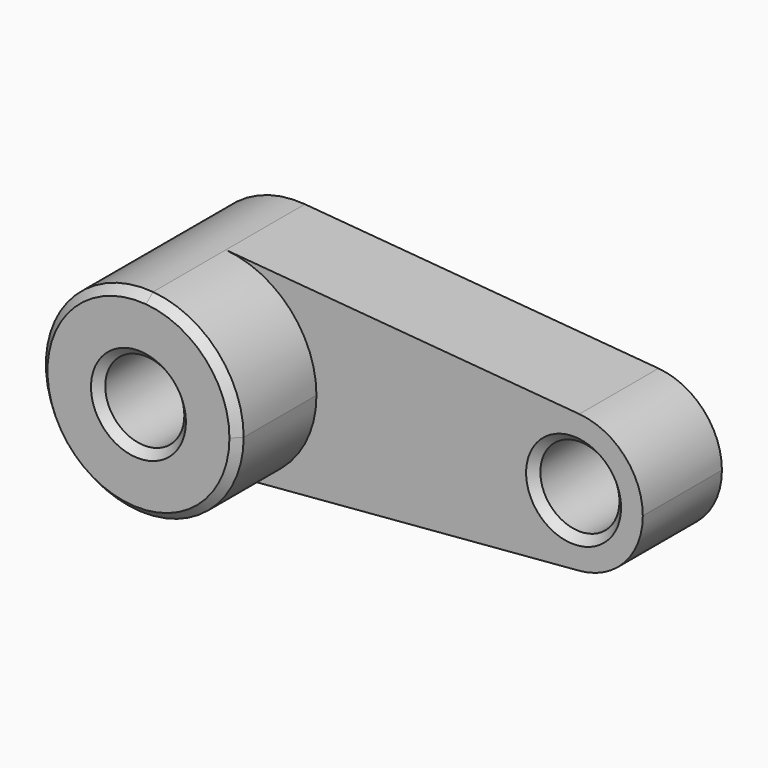
from build123d import *

# Parameters (mm, degrees)
F0_R     = 10
F1_DEPTH = 25
F2_DEPTH = 50
F3_SIZE  = 2


with BuildPart() as f1:
    # F0 (on Front) → F1 (new body)
    with BuildSketch(Plane.XZ):
        with BuildLine():
            ThreePointArc((2.083333, -24.913043), (18.399502, -16.92508), (25, 0))
            ThreePointArc((25, 0), (18.399502, 16.92508), (2.083333, 24.913043))
            ThreePointArc((2.083333, 24.913043), (-25, 0), (2.083333, -24.913043))
        make_face()
        Circle(F0_R, mode=Mode.SUBTRACT)
        with BuildLine():
            ThreePointArc((2.083333, 24.913043), (18.399502, 16.92508), (25, 0))
            ThreePointArc((25, 0), (18.399502, -16.92508), (2.083333, -24.913043))
            Line((2.083333, -24.913043), (91.458333, -17.43913))
            ThreePointArc((91.458333, -17.43913), (72.5, 0), (91.458333, 17.43913))
            Line((91.458333, 17.43913), (2.083333, 24.913043))
        make_face()
        with BuildLine():
            ThreePointArc((107.5, 0), (102.879651, 11.847556), (91.458333, 17.43913))
            ThreePointArc((91.458333, 17.43913), (72.5, 0), (91.458333, -17.43913))
            ThreePointArc((91.458333, -17.43913), (102.879651, -11.847556), (107.5, 0))
        make_face()
        with Locations((90, 0)):
            Circle(F0_R, mode=Mode.SUBTRACT)
    extrude(amount=F1_DEPTH)

    # F0 (on Front) → F2 (join)
    with BuildSketch(Plane.XZ):
        with BuildLine():
            ThreePointArc((2.083333, -24.913043), (18.399502, -16.92508), (25, 0))
            ThreePointArc((25, 0), (18.399502, 16.92508), (2.083333, 24.913043))
            ThreePointArc((2.083333, 24.913043), (-25, 0), (2.083333, -24.913043))
        make_face()
        Circle(F0_R, mode=Mode.SUBTRACT)
    extrude(amount=F2_DEPTH)

    # F3
    f3_edges = [f1.edges().sort_by_distance(p)[0] for p in [
        (-2.083333, -50, 24.913043),
        (-10, -50, 0),
        (-10, 0, 0),
        (10, -25, 0),
        (80, -25, 0),
    ]]
    chamfer(f3_edges, length=F3_SIZE)


solid = f1.part
